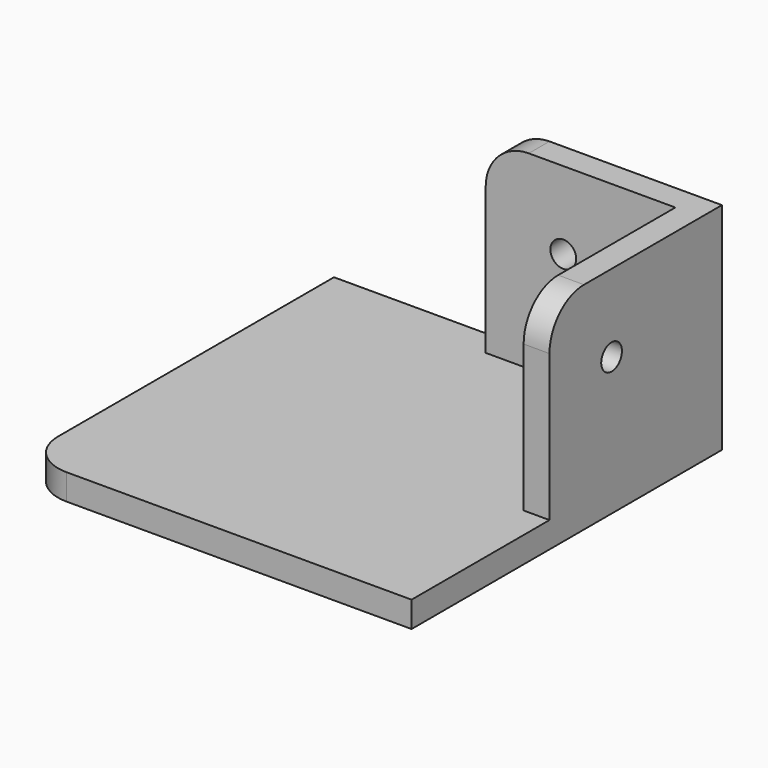
from build123d import *

# Parameters (mm, degrees)
F0_W     = 45
F0_H     = 45
F3_DEPTH = 3
F4_R     = 5
F1_W     = 25
F1_H     = 25
F5_DEPTH = 3
F6_R     = 5
F2_W     = 25
F2_H     = 25
F7_DEPTH = 3
F8_R     = 5
F10_D    = 3
F12_D    = 3


with BuildPart() as f3:
    # F0 (on Top) → F3 (new body)
    with BuildSketch(Plane.XY):
        with Locations((-22.5, -22.5)):
            Rectangle(F0_W, F0_H)
    extrude(amount=F3_DEPTH)

    # F4
    f4_edges = [f3.edges().sort_by_distance(p)[0] for p in [
        (-45, -45, 1.5),
    ]]
    fillet(f4_edges, radius=F4_R)

    # F1 (on Right) → F5 (join)
    with BuildSketch(Plane.YZ):
        with Locations((-12.5, 12.5)):
            Rectangle(F1_W, F1_H)
    extrude(amount=-F5_DEPTH)

    # F6
    f6_edges = [f3.edges().sort_by_distance(p)[0] for p in [
        (-1.5, -25, 25),
    ]]
    fillet(f6_edges, radius=F6_R)

    # F2 (on Front) → F7 (join)
    with BuildSketch(Plane.XZ):
        with Locations((-12.5, 12.5)):
            Rectangle(F2_W, F2_H)
    extrude(amount=F7_DEPTH)

    # F8
    f8_edges = [f3.edges().sort_by_distance(p)[0] for p in [
        (-25, -1.5, 25),
    ]]
    fillet(f8_edges, radius=F8_R)

    # F10 (through all)
    with Locations(Plane.XZ.offset(3)):
        with Locations((-16, 16)):
            Hole(F10_D / 2)

    # F12 (through all)
    with Locations(Plane(origin=(-3, 0, 0), x_dir=(0, -1, 0), z_dir=(-1, 0, 0))):
        with Locations((16, 16)):
            Hole(F12_D / 2)


solid = f3.part
